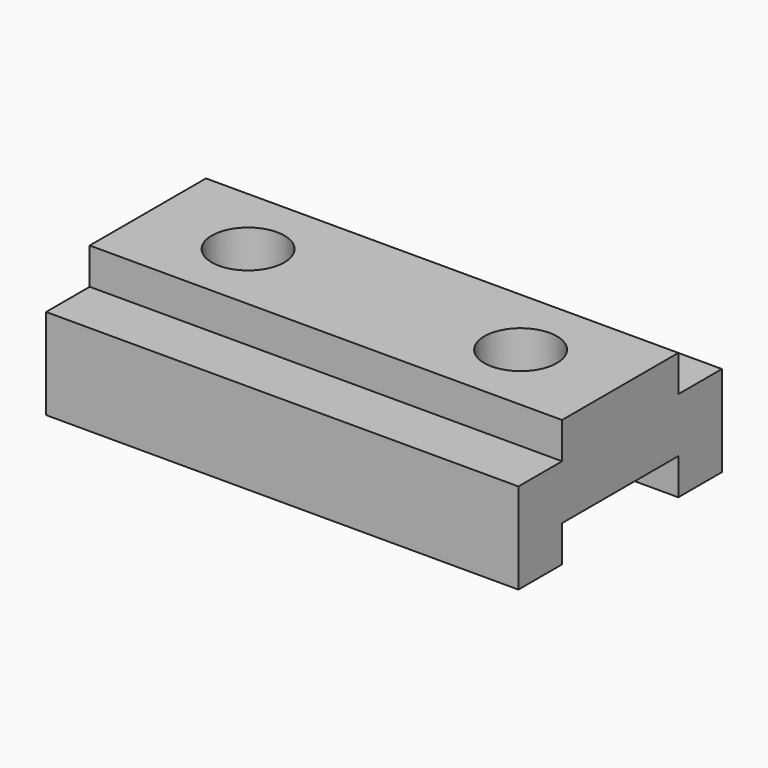
from build123d import *

# Parameters (mm, degrees)
F0_W     = 88.9
F0_H     = 44.45
F1_DEPTH = 165.1
F2_W     = 50.8
F2_H     = 12.7
F3_DEPTH = 165.1
F4_W     = 19.05
F4_H     = 12.7
F5_DEPTH = 165.1
F6_R     = 12.7
F7_DEPTH = 44.45


with BuildPart() as f1:
    # F0 (on Right) → F1 (new body)
    with BuildSketch(Plane.YZ):
        with Locations((6.474357, -8.231683)):
            Rectangle(F0_W, F0_H)
    extrude(amount=-F1_DEPTH)

    # F2 (on face) → F3 (cut)
    with BuildSketch(Plane.YZ):
        with Locations((6.474357, -24.106683)):
            Rectangle(F2_W, F2_H)
    extrude(amount=-F3_DEPTH, mode=Mode.SUBTRACT)

    # F4 (on face) → F5 (cut)
    with BuildSketch(Plane.YZ):
        with Locations((41.399357, 7.643317)):
            Rectangle(F4_W, F4_H)
        with Locations((-28.450643, 7.643317)):
            Rectangle(F4_W, F4_H)
    extrude(amount=-F5_DEPTH, mode=Mode.SUBTRACT)

    # F6 (on face) → F7 (cut)
    with BuildSketch(Plane.XY.offset(13.993317)):
        with Locations((-130.048, 6.474357)):
            Circle(F6_R)
        with Locations((-34.798, 6.474357)):
            Circle(F6_R)
    extrude(amount=-F7_DEPTH, mode=Mode.SUBTRACT)


solid = f1.part
